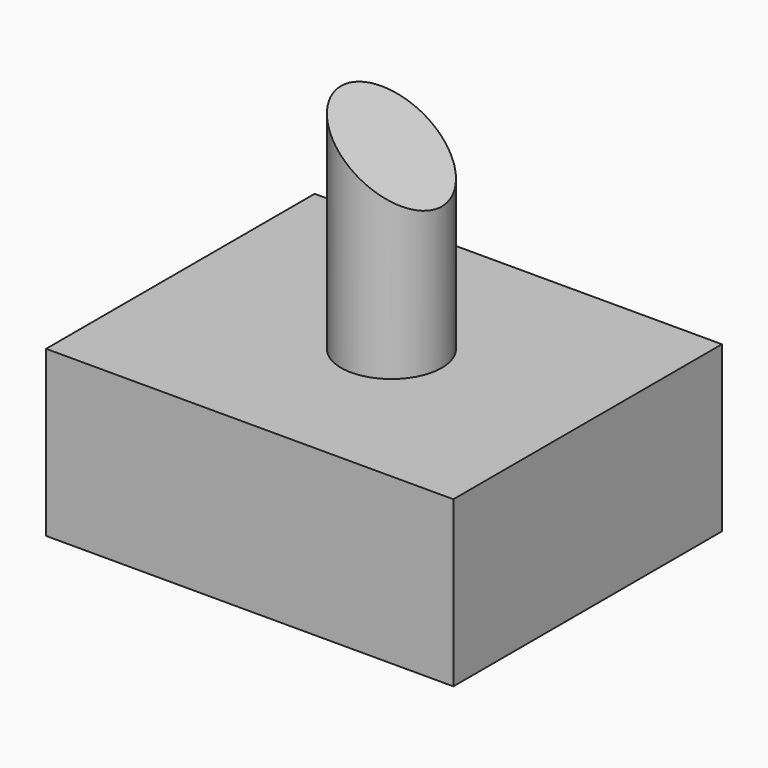
from build123d import *

# Parameters (mm, degrees)
F0_R          = 10.7982965202
F1_DEPTH      = 86.614
F0_W          = 87.2836336493
F0_H          = 71.939252317
F2_DEPTH      = 35.306
F4_DEPTH      = 25.4
F4_DEPTH_BACK = 25.4


with BuildPart() as f1:
    # F0 (on Top) → F1 (new body)
    with BuildSketch(Plane.XY):
        with Locations((1.5942216851, 0)):
            Circle(F0_R)
    extrude(amount=F1_DEPTH)

    # F0 (on Top) → F2 (join)
    with BuildSketch(Plane.XY):
        Rectangle(F0_W, F0_H)
        with Locations((1.5942216851, 0)):
            Circle(F0_R, mode=Mode.SUBTRACT)
    extrude(amount=F2_DEPTH)

    # F3 (on Front) → F4 (cut, two sides)
    with BuildSketch(Plane.XZ) as f4_sk:
        Polygon((33.4245190024, 102.3935750127), (-31.5084643662, 97.7098867297), (33.4245190024, 50.4471883178), align=None)
    extrude(amount=-F4_DEPTH, mode=Mode.SUBTRACT)
    extrude(f4_sk.sketch, amount=F4_DEPTH_BACK, mode=Mode.SUBTRACT)


solid = f1.part
